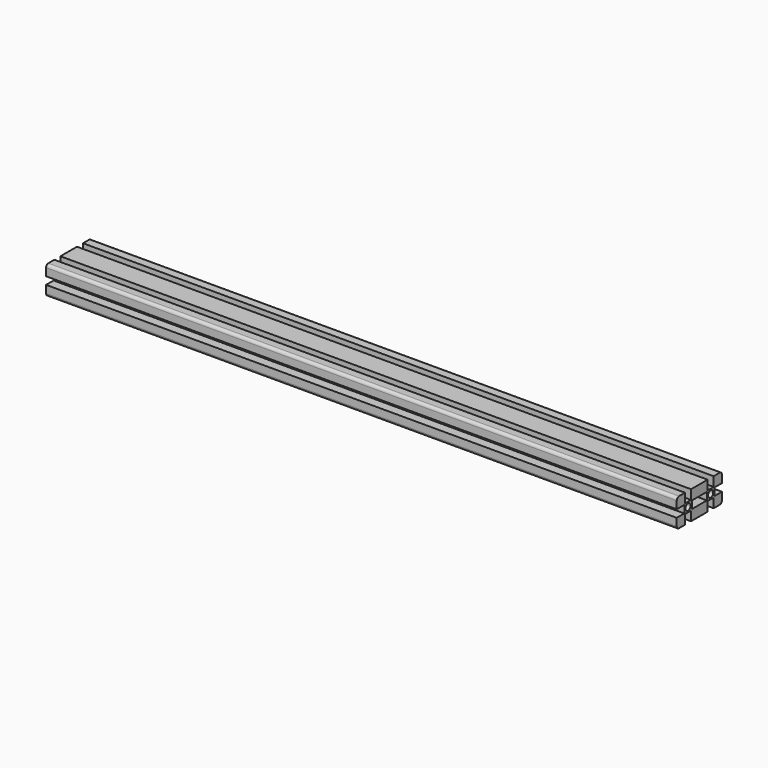
from build123d import *

# Parameters (mm, degrees)
F1_DEPTH = 335
F2_W     = 20
F2_H     = 8
F2_R     = 3.4
F3_DEPTH = 670
F4_R     = 3


with BuildPart() as f1:
    # F0 (on Right) → F1 (new body, symmetric)
    with BuildSketch(Plane.YZ):
        Polygon((30, 4), (30, 15), (19, 15), (19, 5), (11, 5), (11, 15), (-11, 15), (-11, 5), (-19, 5), (-19, 15), (-30, 15), (-30, 4), (-20, 4), (-20, -4), (-30, -4), (-30, -15), (-19, -15), (-19, -5), (-11, -5), (-11, -15), (11, -15), (11, -5), (19, -5), (19, -15), (30, -15), (30, -4), (20, -4), (20, 4), align=None)
    extrude(amount=F1_DEPTH, both=True)

    # F2 (on face) → F3 (cut)
    with BuildSketch(Plane.YZ.offset(335)):
        Rectangle(F2_W, F2_H)
        with Locations((-15, 0)):
            Circle(F2_R)
        with Locations((15, 0)):
            Circle(F2_R)
    extrude(amount=-F3_DEPTH, mode=Mode.SUBTRACT)

    # F4
    f4_edges = [f1.edges().sort_by_distance(p)[0] for p in [
        (0, -30, 15),
        (0, -30, -15),
        (0, 30, 15),
        (0, 30, -15),
    ]]
    fillet(f4_edges, radius=F4_R)


solid = f1.part
